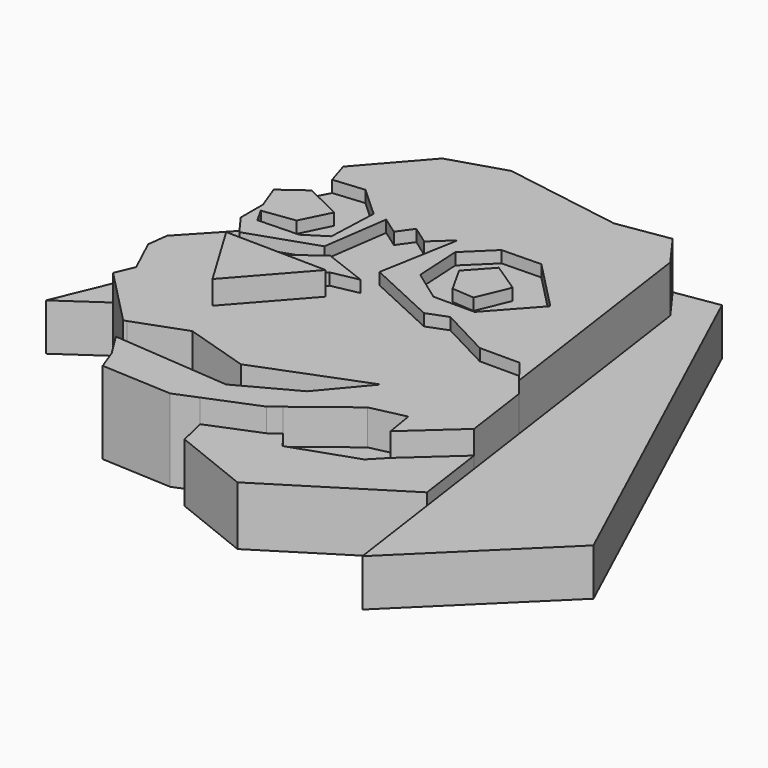
from build123d import *

# Parameters (mm, degrees)
F1_DEPTH = 6.35
F2_DEPTH = 7.9375
F3_DEPTH = 9.525
F4_DEPTH = 11.1125
F5_DEPTH = 12.7
F6_DEPTH = 14.2875
F7_DEPTH = 1.5875
F8_DEPTH = 1.5875


with BuildPart() as f1:
    # F0 (on Top) → F1 (new body)
    with BuildSketch(Plane.XY):
        Polygon((-35.8103439212, -4.5593217947), (-33.9071340859, -8.6252652109), (-33.5384329894, -9.412943883), (-34.6120148897, -11.9838882238), (-26.9895140082, -19.8032855988), (-26.5695869222, -19.6492926364), (-19.7610929608, -17.1525254846), (-11.0217193142, -19.8685638607), (3.3818825614, -14.2671633512), (-1.7102999846, -20.329285413), (-9.3728229403, -24.4515277445), (-10.5090038238, -24.3597326853), (-22.254801242, -23.410758639), (-25.2798311412, -23.1663584709), (-23.24295789, -26.4399051666), (-22.2002733499, -29.25273031), (-12.6948654652, -29.7376997769), (-9.6338509958, -28.4906197353), (-2.8742274735, -25.7366988808), (-1.4843321561, -24.6623260829), (5.5642467923, -19.2138571292), (10.2457571775, -18.1676670909), (10.8801592141, -21.945245564), (17.4245349995, -16.0254287724), (16.1157045513, -6.7941471934), (13.6357676238, -3.5932986066), (8.2433465868, -3.5932986066), (1.394683728, 0), (-1.3447812526, -1.0412705597), (-10.875236243, 3.3707101829), (-8.9431926608, 14.169969596), (-11.5485337064, 11.7590313642), (-14.0071965859, 13.5024469656), (-15.4354972765, 11.4881768823), (-17.8145058453, 13.1751103327), (-19.0833117813, 4.3078940362), (-28.1235463917, 1.2368093012), (-30.0988443196, 3.9512561634), (-35.4643054307, -1.7910201568), align=None)
        Polygon((-13.6989112943, -2.2222886328), (-21.7251610011, -11.2912235782), (-27.302313596, -2.0040527452), (-24.003424822, -2.0569759701), (-17.311938107, 3.0396326911), (-11.3225607201, 0.7360266754), (-14.9355856702, 0), (-16.9485407512, -2.1701556624), align=None, mode=Mode.SUBTRACT)
        Polygon((-27.3744759216, 21.5401743719), (-28.9157517254, 19.7830181569), (-28.4356558695, 18.2484276593), (-27.9555600137, 16.7138371617), (-23.7718690187, 17.1082001179), (-19.6567643434, 13.3531671017), (-19.9311058968, 6.5632439218), (-22.8116791695, 4.7285929322), (-28.3499248326, 4.5571303926), (-29.4209925105, 6.4892523833), (-30.0988443196, 7.7120438218), (-30.0988443196, 3.9512561634), (-28.1235463917, 1.2368093012), (-19.0833117813, 4.3078940362), (-17.8145058453, 13.1751103327), (-15.4354972765, 11.4881768823), (-14.0071965859, 13.5024469656), (-11.5485337064, 11.7590313642), (-8.9431926608, 14.169969596), (-10.875236243, 3.3707101829), (-1.3447812526, -1.0412705597), (1.394683728, 0), (8.2433465868, -3.5932986066), (13.6357676238, -3.5932986066), (16.1157045513, -6.7941471934), (11.7125554425, 24.2616013296), (8.5552403661, 28.6131991288), (1.5173847093, 27.499334136), (-14.4329823518, 30.0980165206), (-21.9111200422, 27.7687609196), align=None)
        Polygon((-7.1180537343, 5.5476040579), (-7.4640917592, 11.9060464203), (-3.9604599588, 15.3231685981), (1.3454514556, 15.4385138303), (8.0931866542, 8.5177607834), (2.6719293091, 2.5053559802), (-2.8935102746, 2.5053559802), align=None, mode=Mode.SUBTRACT)
        Polygon((14.4653307977, 29.548575351), (8.5552403661, 28.6131991288), (11.7125554425, 24.2616013296), (16.1157045513, -6.7941471934), (17.4245349995, -16.0254287724), (18.7963797011, -25.7011547155), (20.6783857611, -38.9750878654), (38.1850010487, -21.8061160352), align=None)
        Polygon((18.7963797011, -25.7011547155), (17.4245349995, -16.0254287724), (10.8801592141, -21.945245564), (8.9192790911, -23.9637978375), (0.2827544813, -26.9483719021), (-1.4843321561, -24.6623260829), (-2.8742274735, -25.7366988808), (-9.6338509958, -28.4906197353), (-8.7630180642, -32.2120897472), (1.7449631123, -36.4130362868), align=None)
        Polygon((-3.9604599588, 15.3231685981), (-7.4640917592, 11.9060464203), (-7.1180537343, 5.5476040579), (-2.8935102746, 2.5053559802), (2.6719293091, 2.5053559802), (8.0931866542, 8.5177607834), (1.3454514556, 15.4385138303), align=None)
        Polygon((-2.4753811304, 5.2159847692), (-4.5083528385, 8.8493805379), (-1.6535416944, 11.9925569743), (2.3403100204, 9.3540186062), (0.5236121942, 4.9997111782), align=None, mode=Mode.SUBTRACT)
        Polygon((-19.7610929608, -17.1525254846), (-26.5695869222, -19.6492926364), (-25.2798311412, -23.1663584709), (-22.254801242, -23.410758639), (-22.254801242, -20.8385027945), (-11.3854473457, -20.8385027945), (-10.5090038238, -24.3597326853), (-9.3728229403, -24.4515277445), (-1.7102999846, -20.329285413), (3.3818825614, -14.2671633512), (-11.0217193142, -19.8685638607), align=None)
        Polygon((-27.9555600137, 16.7138371617), (-28.4356558695, 18.2484276593), (-41.9236756861, -14.1618680209), (-33.9071340859, -8.6252652109), (-35.8103439212, -4.5593217947), (-35.4643054307, -1.7910201568), (-30.0988443196, 3.9512561634), (-30.0988443196, 7.7120438218), (-31.3622131944, 11.0882837325), (-30.6994514223, 11.5721586804), align=None)
        Polygon((-23.7718690187, 17.1082001179), (-27.9555600137, 16.7138371617), (-30.6994514223, 11.5721586804), (-28.1036924571, 13.4672932327), (-23.1149829924, 10.9873563051), (-25.0553801825, 7.0839998448), (-29.4209925105, 6.4892523833), (-28.3499248326, 4.5571303926), (-22.8116791695, 4.7285929322), (-19.9311058968, 6.5632439218), (-19.6567643434, 13.3531671017), align=None)
        Polygon((-27.302313596, -2.0040527452), (-21.7251610011, -11.2912235782), (-13.6989112943, -2.2222886328), (-16.9485407512, -2.1701556624), (-24.003424822, -2.0569759701), align=None)
        Polygon((8.9192790911, -23.9637978375), (10.8801592141, -21.945245564), (10.2457571775, -18.1676670909), (5.5642467923, -19.2138571292), (-1.4843321561, -24.6623260829), (0.2827544813, -26.9483719021), align=None)
        Polygon((-28.1036924571, 13.4672932327), (-30.6994514223, 11.5721586804), (-31.3622131944, 11.0882837325), (-30.0988443196, 7.7120438218), (-29.4209925105, 6.4892523833), (-25.0553801825, 7.0839998448), (-23.1149829924, 10.9873563051), align=None)
        Polygon((-22.254801242, -20.8385027945), (-22.254801242, -23.410758639), (-10.5090038238, -24.3597326853), (-11.3854473457, -20.8385027945), align=None)
        Polygon((-23.4421584755, 31.5658189356), (-27.3744759216, 21.5401743719), (-21.9111200422, 27.7687609196), (-14.4329823518, 30.0980165206), align=None)
        Polygon((-24.003424822, -2.0569759701), (-16.9485407512, -2.1701556624), (-14.9355856702, 0), (-11.3225607201, 0.7360266754), (-17.311938107, 3.0396326911), align=None)
        Polygon((-1.6535416944, 11.9925569743), (-4.5083528385, 8.8493805379), (-2.4753811304, 5.2159847692), (0.5236121942, 4.9997111782), (2.3403100204, 9.3540186062), align=None)
    extrude(amount=F1_DEPTH)

    # F0 (on Top) → F2 (join)
    with BuildSketch(Plane.XY):
        Polygon((-35.8103439212, -4.5593217947), (-33.9071340859, -8.6252652109), (-33.5384329894, -9.412943883), (-34.6120148897, -11.9838882238), (-26.9895140082, -19.8032855988), (-26.5695869222, -19.6492926364), (-19.7610929608, -17.1525254846), (-11.0217193142, -19.8685638607), (3.3818825614, -14.2671633512), (-1.7102999846, -20.329285413), (-9.3728229403, -24.4515277445), (-10.5090038238, -24.3597326853), (-22.254801242, -23.410758639), (-25.2798311412, -23.1663584709), (-23.24295789, -26.4399051666), (-22.2002733499, -29.25273031), (-12.6948654652, -29.7376997769), (-9.6338509958, -28.4906197353), (-2.8742274735, -25.7366988808), (-1.4843321561, -24.6623260829), (5.5642467923, -19.2138571292), (10.2457571775, -18.1676670909), (10.8801592141, -21.945245564), (17.4245349995, -16.0254287724), (16.1157045513, -6.7941471934), (13.6357676238, -3.5932986066), (8.2433465868, -3.5932986066), (1.394683728, 0), (-1.3447812526, -1.0412705597), (-10.875236243, 3.3707101829), (-8.9431926608, 14.169969596), (-11.5485337064, 11.7590313642), (-14.0071965859, 13.5024469656), (-15.4354972765, 11.4881768823), (-17.8145058453, 13.1751103327), (-19.0833117813, 4.3078940362), (-28.1235463917, 1.2368093012), (-30.0988443196, 3.9512561634), (-35.4643054307, -1.7910201568), align=None)
        Polygon((-13.6989112943, -2.2222886328), (-21.7251610011, -11.2912235782), (-27.302313596, -2.0040527452), (-24.003424822, -2.0569759701), (-17.311938107, 3.0396326911), (-11.3225607201, 0.7360266754), (-14.9355856702, 0), (-16.9485407512, -2.1701556624), align=None, mode=Mode.SUBTRACT)
        Polygon((-27.3744759216, 21.5401743719), (-28.9157517254, 19.7830181569), (-28.4356558695, 18.2484276593), (-27.9555600137, 16.7138371617), (-23.7718690187, 17.1082001179), (-19.6567643434, 13.3531671017), (-19.9311058968, 6.5632439218), (-22.8116791695, 4.7285929322), (-28.3499248326, 4.5571303926), (-29.4209925105, 6.4892523833), (-30.0988443196, 7.7120438218), (-30.0988443196, 3.9512561634), (-28.1235463917, 1.2368093012), (-19.0833117813, 4.3078940362), (-17.8145058453, 13.1751103327), (-15.4354972765, 11.4881768823), (-14.0071965859, 13.5024469656), (-11.5485337064, 11.7590313642), (-8.9431926608, 14.169969596), (-10.875236243, 3.3707101829), (-1.3447812526, -1.0412705597), (1.394683728, 0), (8.2433465868, -3.5932986066), (13.6357676238, -3.5932986066), (16.1157045513, -6.7941471934), (11.7125554425, 24.2616013296), (8.5552403661, 28.6131991288), (1.5173847093, 27.499334136), (-14.4329823518, 30.0980165206), (-21.9111200422, 27.7687609196), align=None)
        Polygon((-7.1180537343, 5.5476040579), (-7.4640917592, 11.9060464203), (-3.9604599588, 15.3231685981), (1.3454514556, 15.4385138303), (8.0931866542, 8.5177607834), (2.6719293091, 2.5053559802), (-2.8935102746, 2.5053559802), align=None, mode=Mode.SUBTRACT)
        Polygon((-22.254801242, -20.8385027945), (-22.254801242, -23.410758639), (-10.5090038238, -24.3597326853), (-11.3854473457, -20.8385027945), align=None)
        Polygon((-28.1036924571, 13.4672932327), (-30.6994514223, 11.5721586804), (-31.3622131944, 11.0882837325), (-30.0988443196, 7.7120438218), (-29.4209925105, 6.4892523833), (-25.0553801825, 7.0839998448), (-23.1149829924, 10.9873563051), align=None)
        Polygon((-1.6535416944, 11.9925569743), (-4.5083528385, 8.8493805379), (-2.4753811304, 5.2159847692), (0.5236121942, 4.9997111782), (2.3403100204, 9.3540186062), align=None)
        Polygon((-24.003424822, -2.0569759701), (-16.9485407512, -2.1701556624), (-14.9355856702, 0), (-11.3225607201, 0.7360266754), (-17.311938107, 3.0396326911), align=None)
        Polygon((-27.302313596, -2.0040527452), (-21.7251610011, -11.2912235782), (-13.6989112943, -2.2222886328), (-16.9485407512, -2.1701556624), (-24.003424822, -2.0569759701), align=None)
        Polygon((18.7963797011, -25.7011547155), (17.4245349995, -16.0254287724), (10.8801592141, -21.945245564), (8.9192790911, -23.9637978375), (0.2827544813, -26.9483719021), (-1.4843321561, -24.6623260829), (-2.8742274735, -25.7366988808), (-9.6338509958, -28.4906197353), (-8.7630180642, -32.2120897472), (1.7449631123, -36.4130362868), align=None)
    extrude(amount=F2_DEPTH)

    # F0 (on Top) → F3 (join)
    with BuildSketch(Plane.XY):
        Polygon((-35.8103439212, -4.5593217947), (-33.9071340859, -8.6252652109), (-33.5384329894, -9.412943883), (-34.6120148897, -11.9838882238), (-26.9895140082, -19.8032855988), (-26.5695869222, -19.6492926364), (-19.7610929608, -17.1525254846), (-11.0217193142, -19.8685638607), (3.3818825614, -14.2671633512), (-1.7102999846, -20.329285413), (-9.3728229403, -24.4515277445), (-10.5090038238, -24.3597326853), (-22.254801242, -23.410758639), (-25.2798311412, -23.1663584709), (-23.24295789, -26.4399051666), (-22.2002733499, -29.25273031), (-12.6948654652, -29.7376997769), (-9.6338509958, -28.4906197353), (-2.8742274735, -25.7366988808), (-1.4843321561, -24.6623260829), (5.5642467923, -19.2138571292), (10.2457571775, -18.1676670909), (10.8801592141, -21.945245564), (17.4245349995, -16.0254287724), (16.1157045513, -6.7941471934), (13.6357676238, -3.5932986066), (8.2433465868, -3.5932986066), (1.394683728, 0), (-1.3447812526, -1.0412705597), (-10.875236243, 3.3707101829), (-8.9431926608, 14.169969596), (-11.5485337064, 11.7590313642), (-14.0071965859, 13.5024469656), (-15.4354972765, 11.4881768823), (-17.8145058453, 13.1751103327), (-19.0833117813, 4.3078940362), (-28.1235463917, 1.2368093012), (-30.0988443196, 3.9512561634), (-35.4643054307, -1.7910201568), align=None)
        Polygon((-13.6989112943, -2.2222886328), (-21.7251610011, -11.2912235782), (-27.302313596, -2.0040527452), (-24.003424822, -2.0569759701), (-17.311938107, 3.0396326911), (-11.3225607201, 0.7360266754), (-14.9355856702, 0), (-16.9485407512, -2.1701556624), align=None, mode=Mode.SUBTRACT)
        Polygon((-27.3744759216, 21.5401743719), (-28.9157517254, 19.7830181569), (-28.4356558695, 18.2484276593), (-27.9555600137, 16.7138371617), (-23.7718690187, 17.1082001179), (-19.6567643434, 13.3531671017), (-19.9311058968, 6.5632439218), (-22.8116791695, 4.7285929322), (-28.3499248326, 4.5571303926), (-29.4209925105, 6.4892523833), (-30.0988443196, 7.7120438218), (-30.0988443196, 3.9512561634), (-28.1235463917, 1.2368093012), (-19.0833117813, 4.3078940362), (-17.8145058453, 13.1751103327), (-15.4354972765, 11.4881768823), (-14.0071965859, 13.5024469656), (-11.5485337064, 11.7590313642), (-8.9431926608, 14.169969596), (-10.875236243, 3.3707101829), (-1.3447812526, -1.0412705597), (1.394683728, 0), (8.2433465868, -3.5932986066), (13.6357676238, -3.5932986066), (16.1157045513, -6.7941471934), (11.7125554425, 24.2616013296), (8.5552403661, 28.6131991288), (1.5173847093, 27.499334136), (-14.4329823518, 30.0980165206), (-21.9111200422, 27.7687609196), align=None)
        Polygon((-7.1180537343, 5.5476040579), (-7.4640917592, 11.9060464203), (-3.9604599588, 15.3231685981), (1.3454514556, 15.4385138303), (8.0931866542, 8.5177607834), (2.6719293091, 2.5053559802), (-2.8935102746, 2.5053559802), align=None, mode=Mode.SUBTRACT)
        Polygon((-3.9604599588, 15.3231685981), (-7.4640917592, 11.9060464203), (-7.1180537343, 5.5476040579), (-2.8935102746, 2.5053559802), (2.6719293091, 2.5053559802), (8.0931866542, 8.5177607834), (1.3454514556, 15.4385138303), align=None)
        Polygon((-2.4753811304, 5.2159847692), (-4.5083528385, 8.8493805379), (-1.6535416944, 11.9925569743), (2.3403100204, 9.3540186062), (0.5236121942, 4.9997111782), align=None, mode=Mode.SUBTRACT)
        Polygon((-23.7718690187, 17.1082001179), (-27.9555600137, 16.7138371617), (-30.6994514223, 11.5721586804), (-28.1036924571, 13.4672932327), (-23.1149829924, 10.9873563051), (-25.0553801825, 7.0839998448), (-29.4209925105, 6.4892523833), (-28.3499248326, 4.5571303926), (-22.8116791695, 4.7285929322), (-19.9311058968, 6.5632439218), (-19.6567643434, 13.3531671017), align=None)
        Polygon((-27.302313596, -2.0040527452), (-21.7251610011, -11.2912235782), (-13.6989112943, -2.2222886328), (-16.9485407512, -2.1701556624), (-24.003424822, -2.0569759701), align=None)
        Polygon((-28.1036924571, 13.4672932327), (-30.6994514223, 11.5721586804), (-31.3622131944, 11.0882837325), (-30.0988443196, 7.7120438218), (-29.4209925105, 6.4892523833), (-25.0553801825, 7.0839998448), (-23.1149829924, 10.9873563051), align=None)
        Polygon((-24.003424822, -2.0569759701), (-16.9485407512, -2.1701556624), (-14.9355856702, 0), (-11.3225607201, 0.7360266754), (-17.311938107, 3.0396326911), align=None)
        Polygon((-1.6535416944, 11.9925569743), (-4.5083528385, 8.8493805379), (-2.4753811304, 5.2159847692), (0.5236121942, 4.9997111782), (2.3403100204, 9.3540186062), align=None)
    extrude(amount=F3_DEPTH)

    # F0 (on Top) → F4 (join)
    with BuildSketch(Plane.XY):
        Polygon((-35.8103439212, -4.5593217947), (-33.9071340859, -8.6252652109), (-33.5384329894, -9.412943883), (-34.6120148897, -11.9838882238), (-26.9895140082, -19.8032855988), (-26.5695869222, -19.6492926364), (-19.7610929608, -17.1525254846), (-11.0217193142, -19.8685638607), (3.3818825614, -14.2671633512), (-1.7102999846, -20.329285413), (-9.3728229403, -24.4515277445), (-10.5090038238, -24.3597326853), (-22.254801242, -23.410758639), (-25.2798311412, -23.1663584709), (-23.24295789, -26.4399051666), (-22.2002733499, -29.25273031), (-12.6948654652, -29.7376997769), (-9.6338509958, -28.4906197353), (-2.8742274735, -25.7366988808), (-1.4843321561, -24.6623260829), (5.5642467923, -19.2138571292), (10.2457571775, -18.1676670909), (10.8801592141, -21.945245564), (17.4245349995, -16.0254287724), (16.1157045513, -6.7941471934), (13.6357676238, -3.5932986066), (8.2433465868, -3.5932986066), (1.394683728, 0), (-1.3447812526, -1.0412705597), (-10.875236243, 3.3707101829), (-8.9431926608, 14.169969596), (-11.5485337064, 11.7590313642), (-14.0071965859, 13.5024469656), (-15.4354972765, 11.4881768823), (-17.8145058453, 13.1751103327), (-19.0833117813, 4.3078940362), (-28.1235463917, 1.2368093012), (-30.0988443196, 3.9512561634), (-35.4643054307, -1.7910201568), align=None)
        Polygon((-13.6989112943, -2.2222886328), (-21.7251610011, -11.2912235782), (-27.302313596, -2.0040527452), (-24.003424822, -2.0569759701), (-17.311938107, 3.0396326911), (-11.3225607201, 0.7360266754), (-14.9355856702, 0), (-16.9485407512, -2.1701556624), align=None, mode=Mode.SUBTRACT)
        Polygon((-27.302313596, -2.0040527452), (-21.7251610011, -11.2912235782), (-13.6989112943, -2.2222886328), (-16.9485407512, -2.1701556624), (-24.003424822, -2.0569759701), align=None)
        Polygon((-24.003424822, -2.0569759701), (-16.9485407512, -2.1701556624), (-14.9355856702, 0), (-11.3225607201, 0.7360266754), (-17.311938107, 3.0396326911), align=None)
        Polygon((-27.3744759216, 21.5401743719), (-28.9157517254, 19.7830181569), (-28.4356558695, 18.2484276593), (-27.9555600137, 16.7138371617), (-23.7718690187, 17.1082001179), (-19.6567643434, 13.3531671017), (-19.9311058968, 6.5632439218), (-22.8116791695, 4.7285929322), (-28.3499248326, 4.5571303926), (-29.4209925105, 6.4892523833), (-30.0988443196, 7.7120438218), (-30.0988443196, 3.9512561634), (-28.1235463917, 1.2368093012), (-19.0833117813, 4.3078940362), (-17.8145058453, 13.1751103327), (-15.4354972765, 11.4881768823), (-14.0071965859, 13.5024469656), (-11.5485337064, 11.7590313642), (-8.9431926608, 14.169969596), (-10.875236243, 3.3707101829), (-1.3447812526, -1.0412705597), (1.394683728, 0), (8.2433465868, -3.5932986066), (13.6357676238, -3.5932986066), (16.1157045513, -6.7941471934), (11.7125554425, 24.2616013296), (8.5552403661, 28.6131991288), (1.5173847093, 27.499334136), (-14.4329823518, 30.0980165206), (-21.9111200422, 27.7687609196), align=None)
        Polygon((-7.1180537343, 5.5476040579), (-7.4640917592, 11.9060464203), (-3.9604599588, 15.3231685981), (1.3454514556, 15.4385138303), (8.0931866542, 8.5177607834), (2.6719293091, 2.5053559802), (-2.8935102746, 2.5053559802), align=None, mode=Mode.SUBTRACT)
        Polygon((-28.1036924571, 13.4672932327), (-30.6994514223, 11.5721586804), (-31.3622131944, 11.0882837325), (-30.0988443196, 7.7120438218), (-29.4209925105, 6.4892523833), (-25.0553801825, 7.0839998448), (-23.1149829924, 10.9873563051), align=None)
        Polygon((-1.6535416944, 11.9925569743), (-4.5083528385, 8.8493805379), (-2.4753811304, 5.2159847692), (0.5236121942, 4.9997111782), (2.3403100204, 9.3540186062), align=None)
    extrude(amount=F4_DEPTH)

    # F0 (on Top) → F5 (join)
    with BuildSketch(Plane.XY):
        Polygon((-27.3744759216, 21.5401743719), (-28.9157517254, 19.7830181569), (-28.4356558695, 18.2484276593), (-27.9555600137, 16.7138371617), (-23.7718690187, 17.1082001179), (-19.6567643434, 13.3531671017), (-19.9311058968, 6.5632439218), (-22.8116791695, 4.7285929322), (-28.3499248326, 4.5571303926), (-29.4209925105, 6.4892523833), (-30.0988443196, 7.7120438218), (-30.0988443196, 3.9512561634), (-28.1235463917, 1.2368093012), (-19.0833117813, 4.3078940362), (-17.8145058453, 13.1751103327), (-15.4354972765, 11.4881768823), (-14.0071965859, 13.5024469656), (-11.5485337064, 11.7590313642), (-8.9431926608, 14.169969596), (-10.875236243, 3.3707101829), (-1.3447812526, -1.0412705597), (1.394683728, 0), (8.2433465868, -3.5932986066), (13.6357676238, -3.5932986066), (16.1157045513, -6.7941471934), (11.7125554425, 24.2616013296), (8.5552403661, 28.6131991288), (1.5173847093, 27.499334136), (-14.4329823518, 30.0980165206), (-21.9111200422, 27.7687609196), align=None)
        Polygon((-7.1180537343, 5.5476040579), (-7.4640917592, 11.9060464203), (-3.9604599588, 15.3231685981), (1.3454514556, 15.4385138303), (8.0931866542, 8.5177607834), (2.6719293091, 2.5053559802), (-2.8935102746, 2.5053559802), align=None, mode=Mode.SUBTRACT)
        Polygon((-24.003424822, -2.0569759701), (-16.9485407512, -2.1701556624), (-14.9355856702, 0), (-11.3225607201, 0.7360266754), (-17.311938107, 3.0396326911), align=None)
        Polygon((-27.302313596, -2.0040527452), (-21.7251610011, -11.2912235782), (-13.6989112943, -2.2222886328), (-16.9485407512, -2.1701556624), (-24.003424822, -2.0569759701), align=None)
    extrude(amount=F5_DEPTH)

    # F0 (on Top) → F6 (join)
    with BuildSketch(Plane.XY):
        Polygon((-27.302313596, -2.0040527452), (-21.7251610011, -11.2912235782), (-13.6989112943, -2.2222886328), (-16.9485407512, -2.1701556624), (-24.003424822, -2.0569759701), align=None)
    extrude(amount=F6_DEPTH)

    # F7 (add, through all): faces of the model
    f7_faces = [f1.faces().sort_by_distance(p)[0] for p in [
        (-27.4220636925, 9.8497741622, 11.1125),
        (-1.0757104764, 8.2793181779, 11.1125),
    ]]
    extrude(f7_faces, amount=F7_DEPTH)

    # F8 (add, through all): faces of the model
    f8_faces = [f1.faces().sort_by_distance(p)[0] for p in [
        (-25.8480259435, 16.7445827735, 9.525),
        (4.5744647012, 11.8369042916, 9.525),
    ]]
    extrude(f8_faces, amount=F8_DEPTH)


solid = f1.part
